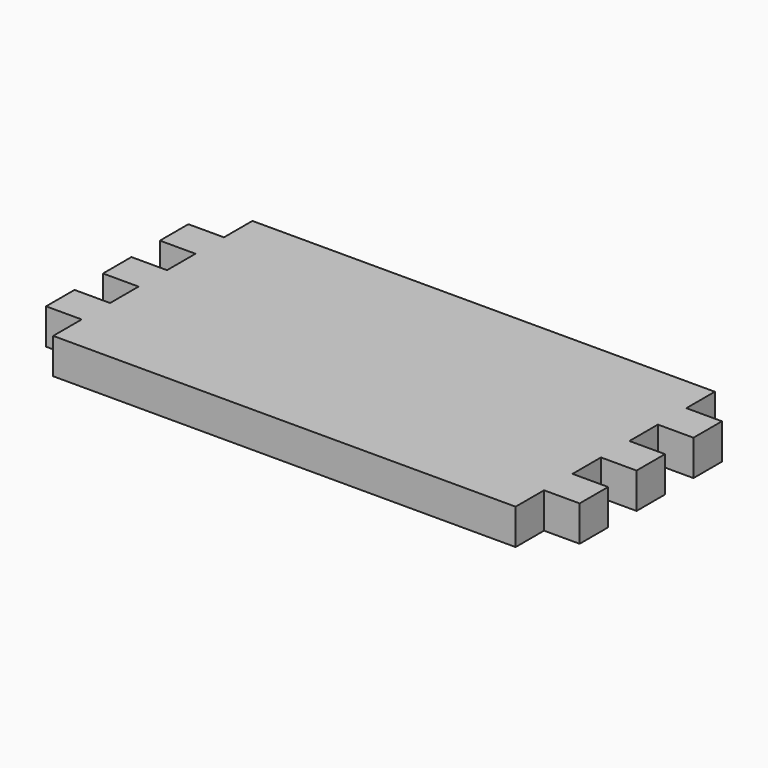
from build123d import *

# Parameters (mm, degrees)
F1_DEPTH = 10


with BuildPart() as f1:
    # F0 (on Top) → F1 (new body)
    with BuildSketch(Plane.XY):
        Polygon((0, -45), (65, -45), (65, -35), (75, -35), (75, -25), (65, -25), (65, -15), (75, -15), (75, -5), (65, -5), (65, 5), (75, 5), (75, 15), (65, 15), (65, 25), (-65, 25), (-65, 15), (-75, 15), (-75, 5), (-65, 5), (-65, -5), (-75, -5), (-75, -15), (-65, -15), (-65, -25), (-75, -25), (-75, -35), (-65, -35), (-65, -45), align=None)
    extrude(amount=F1_DEPTH)


solid = f1.part
